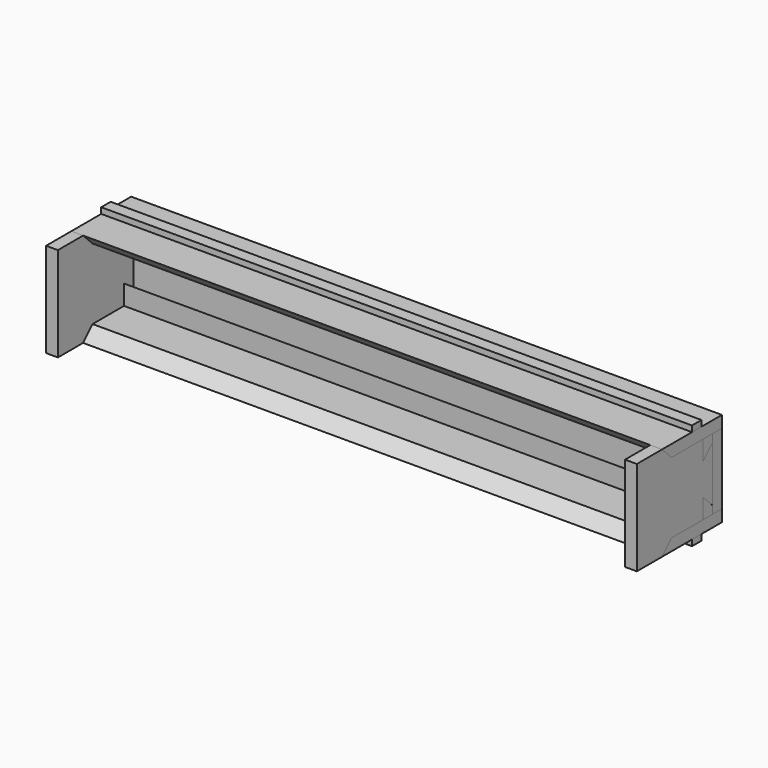
from build123d import *

# Parameters (mm, degrees)
F1_DEPTH  = 19.05
F3_DEPTH  = 952.5
F4_W      = 19.05
F4_H      = 114.3
F5_DEPTH  = 952.5
F7_DEPTH  = 952.5
F9_W      = 19.05
F9_H      = 9.525
F10_DEPTH = 952.5


with BuildPart() as f1:
    # F0 (on Right) → F1 (new body)
    with BuildSketch(Plane.YZ):
        Polygon((0, 152.4), (0, 0), (50.8, 0), (69.85, 19.05), (133.35, 19.05), (133.35, 50.8), (152.4, 31.75), (152.4, 120.65), (133.35, 101.6), (133.35, 133.35), (69.85, 133.35), (50.8, 152.4), align=None)
    extrude(amount=F1_DEPTH)


with BuildPart() as f3:
    # F2 (on Right) → F3 (new body)
    with BuildSketch(Plane.YZ):
        Polygon((69.85, 19.05), (50.8, 0), (171.45, 0), (171.45, 19.05), align=None)
        Polygon((171.45, 152.4), (50.8, 152.4), (69.85, 133.35), (171.45, 133.35), align=None)
    extrude(amount=F3_DEPTH)


with BuildPart() as f5:
    # F4 (on Right) → F5 (new body)
    with BuildSketch(Plane.YZ):
        with Locations((161.925, 76.2)):
            Rectangle(F4_W, F4_H)
    extrude(amount=F5_DEPTH)


with BuildPart() as f7:
    # F6 (on Right) → F7 (new body)
    with BuildSketch(Plane.YZ):
        Polygon((152.346036, 120.65), (152.346036, 133.35), (133.296036, 133.35), (133.296036, 101.6), align=None)
        Polygon((133.296036, 19.05), (152.346036, 19.05), (152.346036, 31.75), (133.296036, 50.8), align=None)
    extrude(amount=F7_DEPTH)


with BuildPart() as f8_1:
    # F8: copy of F1
    add(f1.part.moved(Location((933.45, 0, 0))))


with BuildPart() as f10:
    # F9 (on Right) → F10 (new body)
    with BuildSketch(Plane.YZ):
        with Locations((120.65, -4.7625)):
            Rectangle(F9_W, F9_H)
        with Locations((120.65, 157.1625)):
            Rectangle(F9_W, F9_H)
    extrude(amount=F10_DEPTH)


solid = Compound([f1.part, f3.part, f5.part, f7.part, f8_1.part, f10.part])
